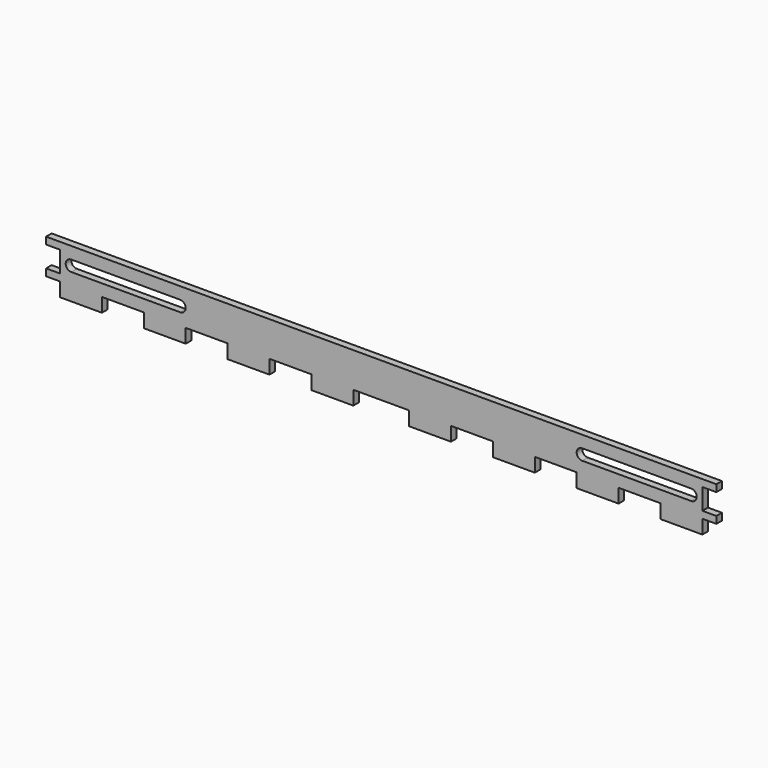
from build123d import *

# Parameters (mm, degrees)
F1_DEPTH = 3.175


with BuildPart() as f1:
    # F0 (on Front) → F1 (new body)
    with BuildSketch(Plane.XZ):
        Polygon((114.062587, 12.7), (-178.037413, 12.7), (-184.387413, 12.7), (-184.387413, 9.525), (-178.037413, 9.525), (-178.037413, 0), (-184.387413, 0), (-184.387413, -3.175), (-178.037413, -3.175), (-178.037413, -9.525), (-158.987413, -9.525), (-158.987413, -3.175), (-139.937413, -3.175), (-139.937413, -9.525), (-120.887413, -9.525), (-120.887413, -3.175), (-101.837413, -3.175), (-101.837413, -9.525), (-82.787413, -9.525), (-82.787413, -3.175), (-63.737413, -3.175), (-63.737413, -9.525), (-44.687413, -9.525), (-44.687413, -3.175), (-19.287413, -3.175), (-19.287413, -9.525), (-0.237413, -9.525), (-0.237413, -3.175), (18.812587, -3.175), (18.812587, -9.525), (37.862587, -9.525), (37.862587, -3.175), (56.912587, -3.175), (56.912587, -9.525), (75.962587, -9.525), (75.962587, -3.175), (95.012587, -3.175), (95.012587, -9.525), (114.062587, -9.525), (114.062587, -3.175), (120.412587, -3.175), (120.412587, 0), (114.062587, 0), (114.062587, 9.525), (120.412587, 9.525), (120.412587, 12.7), align=None)
        with BuildLine():
            Line((-172.957413, 7.2625), (-123.387413, 7.2625))
            ThreePointArc((-123.387413, 7.2625), (-120.887413, 4.7625), (-123.387413, 2.2625))
            Line((-123.387413, 2.2625), (-172.86329, 2.2625))
            ThreePointArc((-172.86329, 2.2625), (-175.457856, 4.714544), (-172.957413, 7.2625))
        make_face(mode=Mode.SUBTRACT)
        with BuildLine():
            ThreePointArc((59.412587, 2.2625), (56.912587, 4.7625), (59.412587, 7.2625))
            Line((59.412587, 7.2625), (108.982587, 7.2625))
            ThreePointArc((108.982587, 7.2625), (111.48303, 4.714544), (108.888464, 2.2625))
            Line((108.888464, 2.2625), (59.412587, 2.2625))
        make_face(mode=Mode.SUBTRACT)
    extrude(amount=F1_DEPTH)


solid = f1.part
